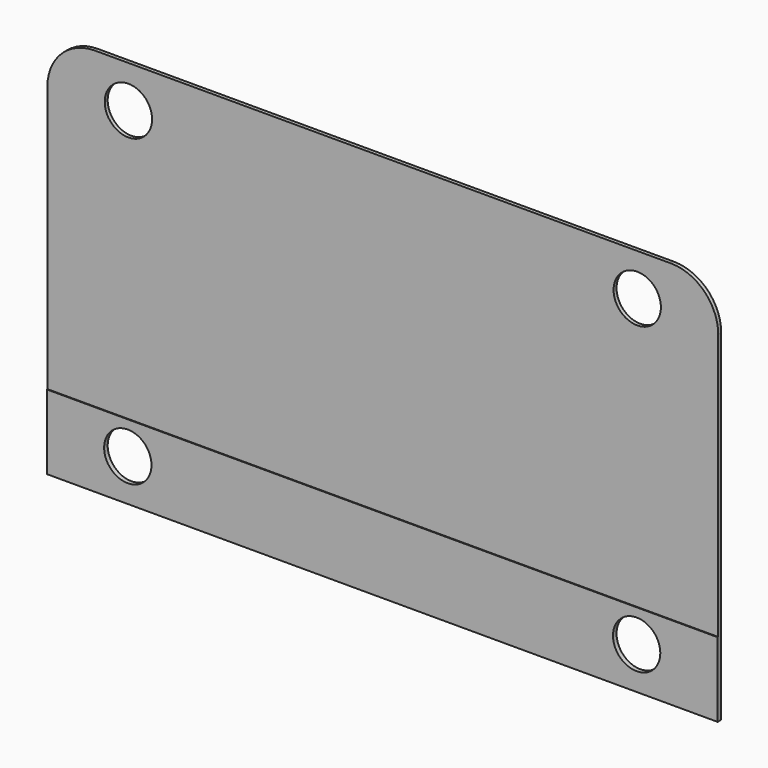
from build123d import *

# Parameters (mm, degrees)
F0_R     = 6.35
F1_DEPTH = 1
F2_W     = 180
F2_H     = 20
F2_R     = 6.35
F3_DEPTH = 0.2


with BuildPart() as f1:
    # F0 (on Front) → F1 (new body)
    with BuildSketch(Plane.XZ):
        with BuildLine():
            Line((77.3, 78.003146), (-77.3, 78.003146))
            ThreePointArc((-77.3, 78.003146), (-86.280256, 74.283402), (-90, 65.303146))
            Line((-90, 65.303146), (-90, -26.096854))
            Line((-90, -26.096854), (90, -26.096854))
            Line((90, -26.096854), (90, 65.303146))
            ThreePointArc((90, 65.303146), (86.280256, 74.283402), (77.3, 78.003146))
        make_face()
        with Locations((-68.2625, -14.846854)):
            Circle(F0_R, mode=Mode.SUBTRACT)
        with Locations((68.2625, -14.846854)):
            Circle(F0_R, mode=Mode.SUBTRACT)
        with Locations((-68.2625, 66.753146)):
            Circle(F0_R, mode=Mode.SUBTRACT)
        with Locations((68.2625, 66.753146)):
            Circle(F0_R, mode=Mode.SUBTRACT)
    extrude(amount=F1_DEPTH)

    # F2 (on face) → F3 (join)
    with BuildSketch(Plane.XZ.offset(1)):
        with Locations((0, -16.096854)):
            Rectangle(F2_W, F2_H)
        with Locations((-68.2625, -14.846854)):
            Circle(F2_R, mode=Mode.SUBTRACT)
        with Locations((68.2625, -14.846854)):
            Circle(F2_R, mode=Mode.SUBTRACT)
    extrude(amount=F3_DEPTH)


solid = f1.part
